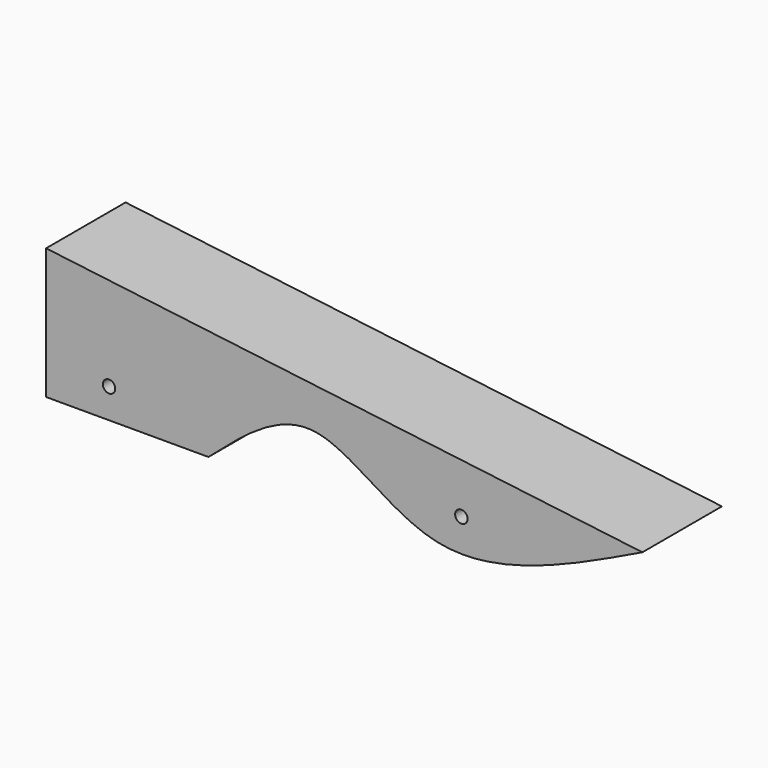
from build123d import *

# Parameters (mm, degrees)
F1_DEPTH = 38.1
F2_R     = 2.38125
F3_DEPTH = 50.8
F4_R     = 9.3726
F5_DEPTH = 50.8


with BuildPart() as f1:
    # F0 (on Front) → F1 (new body)
    with BuildSketch(Plane.XZ):
        with BuildLine():
            Line((162.1998757672, 0), (-66.4001242328, 28.252322495))
            Line((-66.4001242328, 28.252322495), (-66.4001242328, -21.9421586787))
            Line((-66.4001242328, -21.9421586787), (-4.1589712477, -21.9421586787))
            add(Edge.make_bspline(
                [(-4.1589712477, -21.9421586787), (9.0570730375, -10.2995880159), (36.3875579336, 13.7769885137), (83.061952184, -38.1511215036), (133.8711179096, -13.656839024), (162.1998757672, 0)],
                knots=[0, 0, 0, 0, 0.292929283, 0.6057712256, 1, 1, 1, 1], degree=3))
        make_face()
    extrude(amount=F1_DEPTH)

    # F2 (on face) → F3 (cut)
    with BuildSketch(Plane.XZ.offset(38.1)):
        with Locations((92.7924972183, -10.5410022661)):
            Circle(F2_R)
        with Locations((-42.2653563885, -10.5410022661)):
            Circle(F2_R)
    extrude(amount=-F3_DEPTH, mode=Mode.SUBTRACT)

    # F4 (on face) → F5 (cut)
    with BuildSketch(Plane(origin=(-66.4001242328, 0, 0), x_dir=(0, -1, 0), z_dir=(-1, 0, 0))):
        with Locations((19.05, 0)):
            Circle(F4_R)
    extrude(amount=-F5_DEPTH, mode=Mode.SUBTRACT)


solid = f1.part
